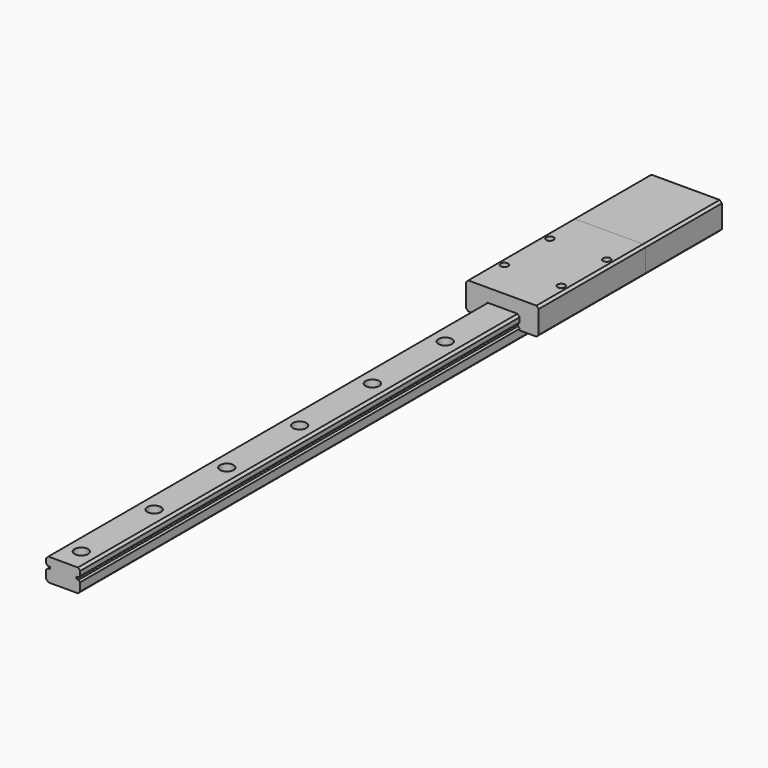
from build123d import *

# Parameters (mm, degrees)
F1_DEPTH  = 300
F2_R      = 1.75
F3_DEPTH  = 10.001
F4_R      = 3
F5_DEPTH  = 4.5
F7_DEPTH  = 58.6
F8_DEPTH  = 42.1
F10_D     = 3.3
F10_DEPTH = 4
F10_TIP   = 0.9914200214


with BuildPart() as f1:
    # F0 (on Front) → F1 (new body)
    with BuildSketch(Plane.XZ):
        Polygon((-6.5, -5), (6.5, -5), (7.5, -4), (7.5, -0.4142135624), (6.7928932188, 0.2928932188), (5.7928932188, 0.2928932188), (5.7928932188, 1.2928932188), (6.7928932188, 1.2928932188), (7.5, 2), (7.5, 4), (6.5, 5), (-6.5, 5), (-7.5, 4), (-7.5, 2), (-6.7928932188, 1.2928932188), (-5.7928932188, 1.2928932188), (-5.7928932188, 0.2928932188), (-6.7928932188, 0.2928932188), (-7.5, -0.4142135624), (-7.5, -4), align=None)
    extrude(amount=F1_DEPTH)

    # F2 (on face) → F3 (cut, through all)
    with BuildSketch(Plane.XY.offset(5)):
        with Locations((0, -10)):
            Circle(F2_R)
        with Locations((0, -50)):
            Circle(F2_R)
        with Locations((0, -90)):
            Circle(F2_R)
        with Locations((0, -130)):
            Circle(F2_R)
        with Locations((0, -170)):
            Circle(F2_R)
        with Locations((0, -210)):
            Circle(F2_R)
        with Locations((0, -250)):
            Circle(F2_R)
        with Locations((0, -290)):
            Circle(F2_R)
        with Locations((0, -330)):
            Circle(F2_R)
    extrude(amount=-F3_DEPTH, mode=Mode.SUBTRACT)

    # F4 (on face) → F5 (cut)
    with BuildSketch(Plane.XY.offset(5)):
        with Locations((0, -10)):
            Circle(F4_R)
        with Locations((0, -50)):
            Circle(F4_R)
        with Locations((0, -90)):
            Circle(F4_R)
        with Locations((0, -130)):
            Circle(F4_R)
        with Locations((0, -170)):
            Circle(F4_R)
        with Locations((0, -210)):
            Circle(F4_R)
        with Locations((0, -250)):
            Circle(F4_R)
        with Locations((0, -290)):
            Circle(F4_R)
        with Locations((0, -330)):
            Circle(F4_R)
    extrude(amount=-F5_DEPTH, mode=Mode.SUBTRACT)


with BuildPart() as f7:
    # F6 (on Front) → F7 (new body)
    with BuildSketch(Plane.XZ):
        Polygon((-15, -1), (-7.65, -1), (-7.65, -0.352081528), (-6.7928932188, 0.5050252532), (-6.7928932188, 1.0807611845), (-7.65, 1.9378679656), (-7.65, 4.0621320344), (-6.5621320344, 5.15), (0, 5.15), (6.5621320344, 5.15), (7.65, 4.0621320344), (7.65, 1.9378679656), (6.7928932188, 1.0807611845), (6.7928932188, 0.5050252532), (7.65, -0.352081528), (7.65, -1), (15, -1), (16, 0), (16, 10), (15, 11), (0, 11), (-15, 11), (-16, 10), (-16, 0), align=None)
    extrude(amount=F7_DEPTH)

    # F10
    with Locations(Plane.XY.offset(11)):
        with Locations((-12.5, -16.8), (12.5, -16.8), (-12.5, -41.8), (12.5, -41.8)):
            Hole(F10_D / 2, depth=F10_DEPTH)
            with Locations((0, 0, -(F10_DEPTH + F10_TIP / 2))):  # 118° drill point
                Cone(0, F10_D / 2, F10_TIP, mode=Mode.SUBTRACT)


with BuildPart() as f8:
    # F6 (on Front) → F8 (new body)
    with BuildSketch(Plane.XZ):
        Polygon((-15, -1), (-7.65, -1), (-7.65, -0.352081528), (-6.7928932188, 0.5050252532), (-6.7928932188, 1.0807611845), (-7.65, 1.9378679656), (-7.65, 4.0621320344), (-6.5621320344, 5.15), (0, 5.15), (6.5621320344, 5.15), (7.65, 4.0621320344), (7.65, 1.9378679656), (6.7928932188, 1.0807611845), (6.7928932188, 0.5050252532), (7.65, -0.352081528), (7.65, -1), (15, -1), (16, 0), (16, 10), (15, 11), (0, 11), (-15, 11), (-16, 10), (-16, 0), align=None)
    extrude(amount=-F8_DEPTH)


solid = Compound([f1.part, f7.part, f8.part])
